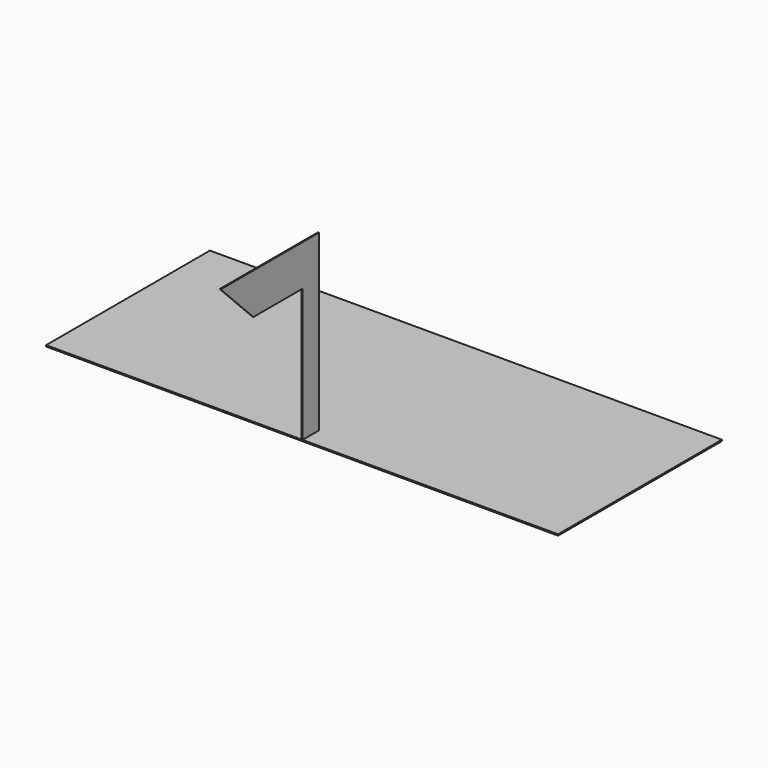
from build123d import *

# Parameters (mm, degrees)
F0_W     = 1270
F0_H     = 508
F1_DEPTH = 3.175
F3_DEPTH = 1.27


with BuildPart() as f1:
    # F0 (on Top) → F1 (new body)
    with BuildSketch(Plane.XY):
        Rectangle(F0_W, F0_H)
    extrude(amount=F1_DEPTH)

    # F2 (on Right) → F3 (join, symmetric)
    with BuildSketch(Plane.YZ):
        Polygon((-254, 333.375), (-254, 3.175), (-203.2, 3.175), (-203.2, 434.975), (-508, 434.975), (-406.4, 333.375), align=None)
    extrude(amount=F3_DEPTH, both=True)


solid = f1.part
